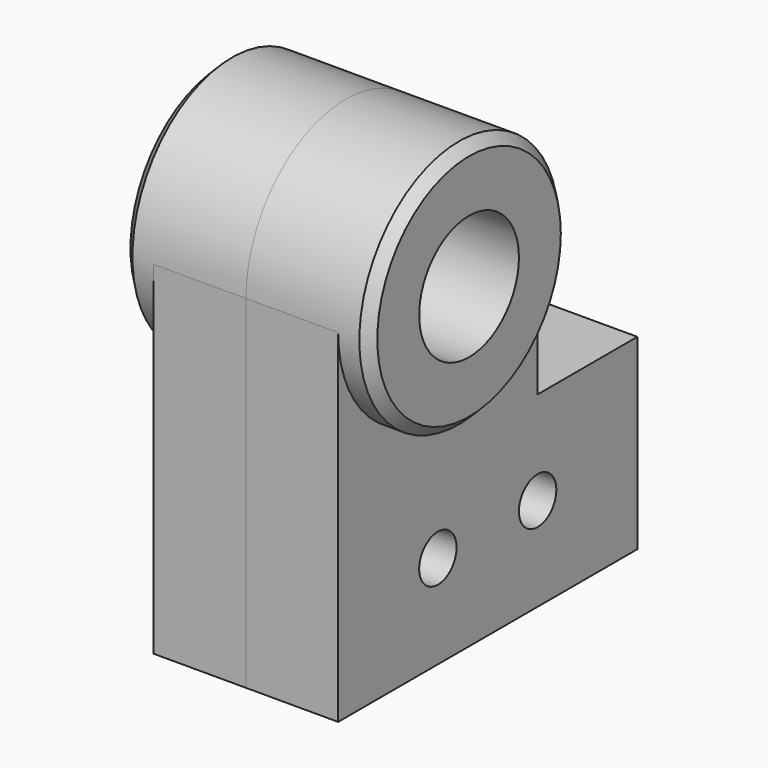
from build123d import *

# Parameters (mm, degrees)
F0_W     = 19.05
F0_H     = 9.525
F1_DEPTH = 4.699
F2_R     = 3.175
F3_DEPTH = 4.699
F4_R     = 1.190625
F5_DEPTH = 4.7
F6_R     = 6.35
F6_R_2   = 3.175
F7_DEPTH = 1.5875
F9_SIZE  = 0.508


with BuildPart() as f1:
    # F0 (on Right) → F1 (new body)
    with BuildSketch(Plane.YZ):
        with Locations((0, 4.7625)):
            Rectangle(F0_W, F0_H)
    extrude(amount=F1_DEPTH)

    # F2 (on Right) → F3 (join)
    with BuildSketch(Plane.YZ):
        with BuildLine():
            ThreePointArc((-9.525, 17.4625), (-3.175, 11.1125), (3.175, 17.4625))
            ThreePointArc((3.175, 17.4625), (-3.175, 23.8125), (-9.525, 17.4625))
        make_face()
        with Locations((-3.175, 17.4625)):
            Circle(F2_R, mode=Mode.SUBTRACT)
        with BuildLine():
            Line((3.175, 0), (3.175, 17.4625))
            ThreePointArc((3.175, 17.4625), (-3.175, 11.1125), (-9.525, 17.4625))
            Line((-9.525, 17.4625), (-9.525, 0))
            Line((-9.525, 0), (3.175, 0))
        make_face()
    extrude(amount=F3_DEPTH)

    # F4 (on face) → F5 (cut, through all)
    with BuildSketch(Plane.YZ.offset(4.699)):
        with Locations((-3.175, 4.7625)):
            Circle(F4_R)
        with Locations((3.175, 4.7625)):
            Circle(F4_R)
    extrude(amount=-F5_DEPTH, mode=Mode.SUBTRACT)

    # F6 (on face) → F7 (join)
    with BuildSketch(Plane.YZ.offset(4.699)):
        with Locations((-3.175, 17.4625)):
            Circle(F6_R)
        with Locations((-3.175, 17.4625)):
            Circle(F6_R_2, mode=Mode.SUBTRACT)
    extrude(amount=F7_DEPTH)

    # F8: F1 across plane


with BuildPart() as f1_1:
    add(f1.part)
    add(f1.part.mirror(Plane.YZ))

    # F9
    f9_edges = [f1_1.edges().sort_by_distance(p)[0] for p in [
        (6.2865, -9.525, 17.4625),
        (-6.2865, -9.525, 17.4625),
    ]]
    chamfer(f9_edges, length=F9_SIZE)


solid = f1_1.part
